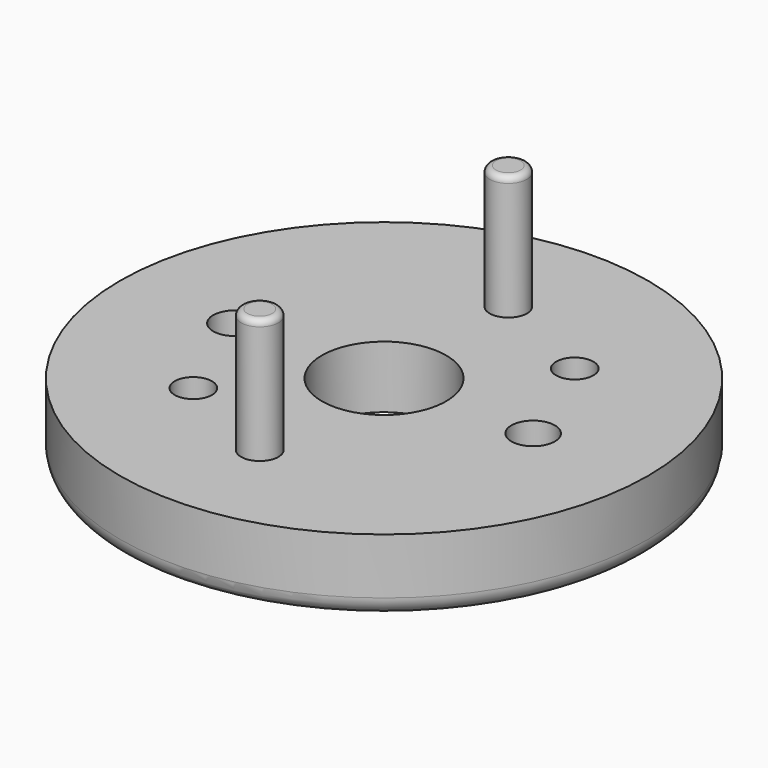
from build123d import *

# Parameters (mm, degrees)
F2_R     = 3
F3_R     = 3.5
F4_DEPTH = 25
F3_R_2   = 3
F5_DEPTH = 20
F6_R     = 1
F7_R     = 3
F8_DEPTH = 25


with BuildPart() as f1:
    # F0 (on Front) → F1 (revolve)
    with BuildSketch(Plane.XZ):
        Polygon((-42.5, 0), (-16, 0), (-16, 2), (-10, 2), (-10, 12), (-42.5, 12), align=None)
    revolve(axis=Axis((0, 0, 19.633664), (0, 0, 1)))

    # F2
    f2_edges = [f1.edges().sort_by_distance(p)[0] for p in [
        (42.5, 0, 0),
    ]]
    fillet(f2_edges, radius=F2_R)

    # F3 (on face) → F4 (cut)
    with BuildSketch(Plane.XY.offset(12)):
        with Locations((-24, 0)):
            Circle(F3_R)
        with Locations((24, 0)):
            Circle(F3_R)
    extrude(amount=-F4_DEPTH, mode=Mode.SUBTRACT)

    # F3 (on face) → F5 (join)
    with BuildSketch(Plane.XY.offset(12)):
        with Locations((0, -25)):
            Circle(F3_R_2)
        with Locations((0, 25)):
            Circle(F3_R_2)
    extrude(amount=F5_DEPTH)

    # F6
    f6_edges = [f1.edges().sort_by_distance(p)[0] for p in [
        (-3, -25, 32),
        (-3, 25, 32),
    ]]
    fillet(f6_edges, radius=F6_R)

    # F7 (on face) → F8 (cut)
    with BuildSketch(Plane.XY.offset(12)):
        with Locations((-17.050904, -17.050904)):
            Circle(F7_R)
        with Locations((17.050904, 17.050904)):
            Circle(F7_R)
    extrude(amount=-F8_DEPTH, mode=Mode.SUBTRACT)


solid = f1.part
